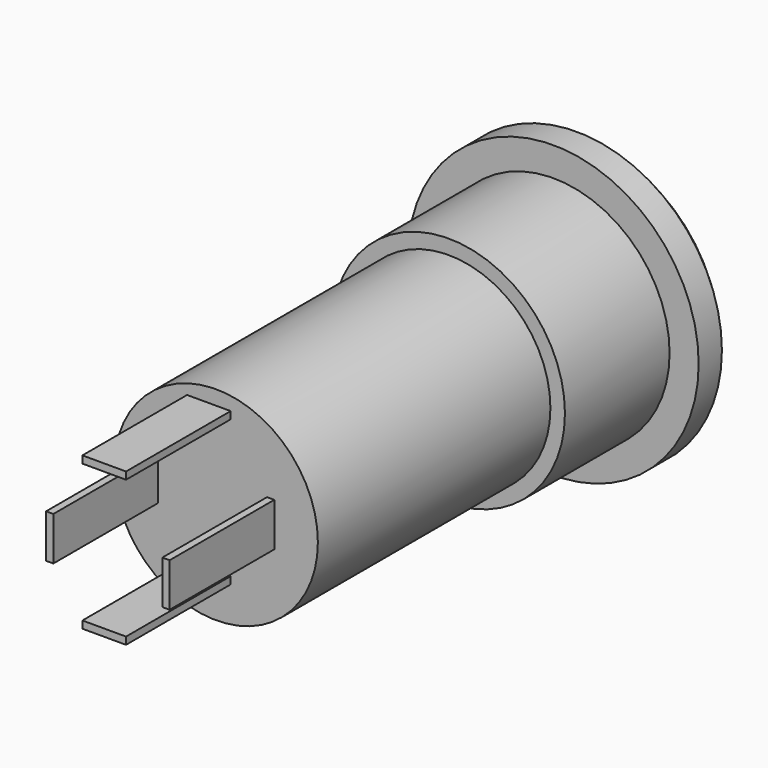
from build123d import *

# Parameters (mm, degrees)
CYLINDER003005_R          = 1.7
CYLINDER003005_DEPTH      = 10
CYLINDER002010_R          = 3.5
CYLINDER002010_DEPTH      = 16
BOX001001007_W            = 1.5
BOX001001007_H            = 0.25
BOX001001007_DEPTH        = 4.6
BOX001001008_W            = 1.5
BOX001001008_H            = 0.25
BOX001001008_DEPTH        = 4.6
BOX001001_W               = 1.5
BOX001001_H               = 0.25
BOX001001_DEPTH           = 4.6
BOX001001_PLACEMENT_ANGLE = 90
BOX001002_W               = 1.5
BOX001002_H               = 0.25
BOX001002_DEPTH           = 4.6
BOX001002_PLACEMENT_ANGLE = 90
CYLINDER004013_R          = 5
CYLINDER004013_DEPTH      = 1.5
CHAMFER009_SIZE           = 0.5
CYLINDER001009_R          = 4
CYLINDER001009_DEPTH      = 4.6
CUT003013_ROLL_ANGLE      = -90


with BuildPart() as hole:
    # Cylinder003005 → Cylinder003005 (new body)
    with BuildSketch(Plane.XY.offset(-8)):
        Circle(CYLINDER003005_R)
    extrude(amount=CYLINDER003005_DEPTH)


with BuildPart() as cylinder002010:
    # Cylinder002010 → Cylinder002010 (new body)
    with BuildSketch(Plane.XY.offset(-14.5)):
        Circle(CYLINDER002010_R)
    extrude(amount=CYLINDER002010_DEPTH)


with BuildPart() as contact:
    # Box001001007 → Box001001007 (new body)
    with BuildSketch(Plane(origin=(-1, -3, -19), x_dir=(1, 0, 0), z_dir=(0, 0, 1))):
        with Locations((0.75, 0.125)):
            Rectangle(BOX001001007_W, BOX001001007_H)
    extrude(amount=BOX001001007_DEPTH)


with BuildPart() as contact001:
    # Box001001008 → Box001001008 (new body)
    with BuildSketch(Plane(origin=(-1, 2, -19), x_dir=(1, 0, 0), z_dir=(0, 0, 1))):
        with Locations((0.75, 0.125)):
            Rectangle(BOX001001008_W, BOX001001008_H)
    extrude(amount=BOX001001008_DEPTH)


with BuildPart() as contact002:
    # Box001001 → Box001001 (new body)
    with BuildSketch(Plane.XY):
        with Locations((0.75, 0.125)):
            Rectangle(BOX001001_W, BOX001001_H)
    extrude(amount=BOX001001_DEPTH)


with BuildPart() as contact002_1:
    # Box001001 placement: moved
    add(contact002.part.moved(Location((2, -0.8, -19))).rotate(Axis((2, -0.8, -19), (0, 0, 1)), BOX001001_PLACEMENT_ANGLE))


with BuildPart() as contact003:
    # Box001002 → Box001002 (new body)
    with BuildSketch(Plane.XY):
        with Locations((0.75, 0.125)):
            Rectangle(BOX001002_W, BOX001002_H)
    extrude(amount=BOX001002_DEPTH)


with BuildPart() as contact003_1:
    # Box001002 placement: moved
    add(contact003.part.moved(Location((-2, -0.9, -19))).rotate(Axis((-2, -0.9, -19), (0, 0, 1)), BOX001002_PLACEMENT_ANGLE))


with BuildPart() as chamfer009:
    # Cylinder004013 → Cylinder004013 (new body)
    with BuildSketch(Plane.XY):
        Circle(CYLINDER004013_R)
    extrude(amount=CYLINDER004013_DEPTH)

    # Chamfer009
    chamfer009_edges = [chamfer009.edges().sort_by_distance(p)[0] for p in [
        (-5, 0, 1.5),
    ]]
    chamfer(chamfer009_edges, length=CHAMFER009_SIZE)


with BuildPart() as f_4_way_jack_socket:
    # Cylinder001009 → Cylinder001009 (new body)
    with BuildSketch(Plane.XY.offset(-4.5)):
        Circle(CYLINDER001009_R)
    extrude(amount=CYLINDER001009_DEPTH)

    # Fusion001002: union Cylinder002010, Contact, Contact001, Contact002, Contact003, Chamfer009
    add(cylinder002010.part)
    add(contact.part)
    add(contact001.part)
    add(contact002_1.part)
    add(contact003_1.part)
    add(chamfer009.part)

    # Cut003013: cut hole
    add(hole.part, mode=Mode.SUBTRACT)


with BuildPart() as f_4_way_jack_socket_1:
    # Cut003013 roll: moved
    add(f_4_way_jack_socket.part.rotate(Axis((0, 0, 0), (1, 0, 0)), CUT003013_ROLL_ANGLE))


with BuildPart() as f_4_way_jack_socket_2:
    # Cut003013 placement: moved
    add(f_4_way_jack_socket_1.part.moved(Location((12.5, 32, 60))))


solid = f_4_way_jack_socket_2.part
